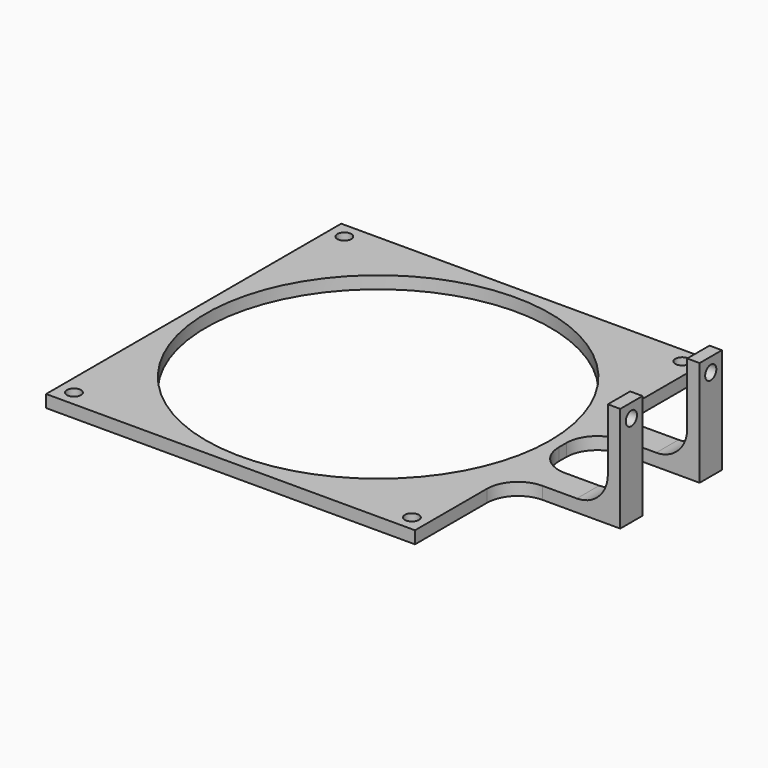
from build123d import *

# Parameters (mm, degrees)
F0_R     = 2.25
F0_R_2   = 55.5
F0_W     = 35
F0_H     = 9
F1_DEPTH = 4
F2_W     = 4
F2_H     = 9
F3_DEPTH = 30
F4_R     = 2.25
F5_DEPTH = 154.001
F6_R     = 10


with BuildPart() as f1:
    # F0 (on Top) → F1 (new body)
    with BuildSketch(Plane.XY):
        Polygon((59.5, 59.5), (-59.5, 59.5), (-59.5, -59.5), (59.5, -59.5), (59.5, -20.5), (59.5, -11.5), (59.5, 11.5), (59.5, 20.5), align=None)
        with Locations((-54.5, -54.5)):
            Circle(F0_R, mode=Mode.SUBTRACT)
        with Locations((54.5, -54.5)):
            Circle(F0_R, mode=Mode.SUBTRACT)
        Circle(F0_R_2, mode=Mode.SUBTRACT)
        with Locations((-54.5, 54.5)):
            Circle(F0_R, mode=Mode.SUBTRACT)
        with Locations((54.5, 54.5)):
            Circle(F0_R, mode=Mode.SUBTRACT)
        with Locations((77, -16)):
            Rectangle(F0_W, F0_H)
        with Locations((77, 16)):
            Rectangle(F0_W, F0_H)
    extrude(amount=F1_DEPTH)

    # F2 (on face) → F3 (join)
    with BuildSketch(Plane.XY.offset(4)):
        with Locations((92.5, 16)):
            Rectangle(F2_W, F2_H)
        with Locations((92.5, -16)):
            Rectangle(F2_W, F2_H)
    extrude(amount=F3_DEPTH)

    # F4 (on face) → F5 (cut, through all)
    with BuildSketch(Plane.YZ.offset(94.5)):
        with Locations((-16, 29.5)):
            Circle(F4_R)
        with Locations((16, 29.5)):
            Circle(F4_R)
    extrude(amount=-F5_DEPTH, mode=Mode.SUBTRACT)

    # F6
    f6_edges = [f1.edges().sort_by_distance(p)[0] for p in [
        (90.5, -16, 4),
        (90.5, 16, 4),
        (59.5, -11.5, 2),
        (59.5, 20.5, 2),
        (59.5, 11.5, 2),
        (59.5, -20.5, 2),
    ]]
    fillet(f6_edges, radius=F6_R)


with BuildPart() as f7_1:
    # F7: copy of F1
    add(f1.part)


solid = Compound([f1.part, f7_1.part])
